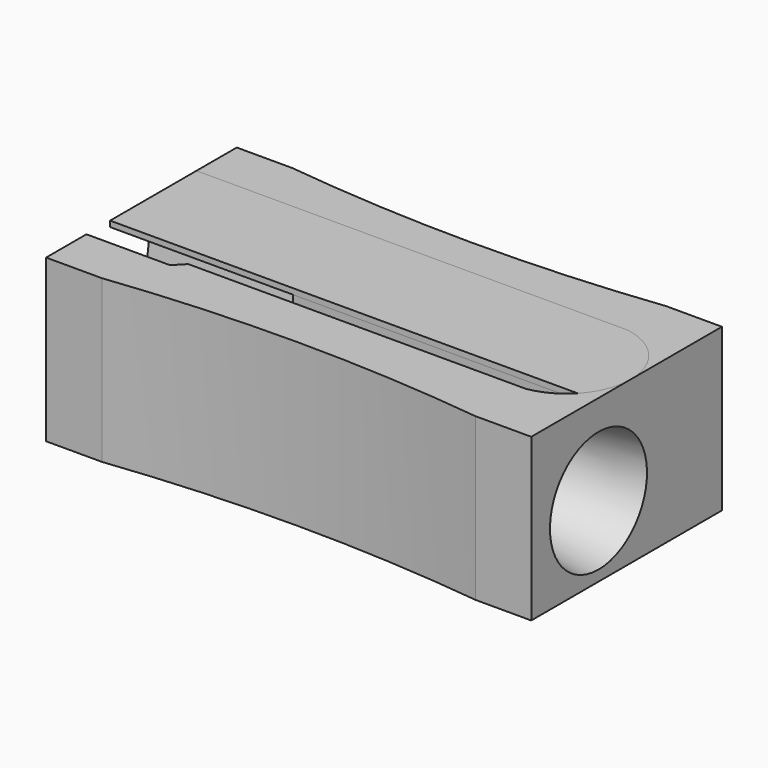
from build123d import *

# Parameters (mm, degrees)
F0_W      = 22.8
F0_H      = 7.6
F1_DEPTH  = 11.2
F7_DEPTH  = 0.9
F9_DEPTH  = 8.6
F10_DEPTH = 7.6
F11_DEPTH = 7.6
F12_DEPTH = 0.27


with BuildPart() as f1:
    # F0 (on Front) → F1 (new body)
    with BuildSketch(Plane.XZ):
        with Locations((11.4, 3.8)):
            Rectangle(F0_W, F0_H)
    extrude(amount=F1_DEPTH)

    # F4 (on offset) → F5 (revolve, cut)
    with BuildSketch(Plane.XZ.offset(7.25)):
        Polygon((8.6, 2.85), (22.8, 0.5), (22.8, 3.35), (8.6, 3.35), align=None)
    revolve(axis=Axis((15.7, -7.25, 3.35), (-1, 0, 0)), mode=Mode.SUBTRACT)

    # F6 (on face) → F7 (cut)
    with BuildSketch(Plane.XY.offset(7.6)):
        with BuildLine():
            Line((21.9739718918, -7.4381930754), (0, -7.4381930754))
            Line((0, -7.4381930754), (0, -8.83))
            Line((0, -8.83), (3.9305342361, -8.83))
            Line((3.9305342361, -8.83), (4.396331734, -8.3473995328))
            Line((4.396331734, -8.3473995328), (20.2752824453, -8.3473995328))
            ThreePointArc((20.2752824453, -8.3473995328), (21.1987672729, -8.0313138122), (21.9739718918, -7.4381930754))
        make_face()
    extrude(amount=-F7_DEPTH, mode=Mode.SUBTRACT)

    # F8 (on face) → F9 (cut)
    with BuildSketch(Plane(origin=(0, 0, 0), x_dir=(0, -1, 0), z_dir=(-1, 0, 0))):
        Polygon((4.9516418949, 7.3297983035), (5.83, 1.1), (8.83, 1.1), (8.83, 6.7), (7.4381930754, 6.7), (7.4381930754, 7.3297983035), align=None)
    extrude(amount=-F9_DEPTH, mode=Mode.SUBTRACT)

    # F6 (on face) → F10 (cut)
    with BuildSketch(Plane.XY.offset(7.6)):
        with BuildLine():
            Line((2.6200045832, -11.2), (20.1820470393, -11.2))
            ThreePointArc((20.1820470393, -11.2), (11.4010258112, -10.6841840003), (2.6200045832, -11.2))
        make_face()
    extrude(amount=-F10_DEPTH, mode=Mode.SUBTRACT)

    # F6 (on face) → F11 (cut)
    with BuildSketch(Plane.XY.offset(7.6)):
        with BuildLine():
            Line((20.1820470393, 0), (2.6200045832, 0))
            ThreePointArc((2.6200045832, 0), (11.4010258112, -0.5158159997), (20.1820470393, 0))
        make_face()
    extrude(amount=-F11_DEPTH, mode=Mode.SUBTRACT)


with BuildPart() as f12:
    # F6 (on face) → F12 (new body)
    with BuildSketch(Plane.XY.offset(7.6)):
        with BuildLine():
            Line((20.2752824453, -2.3688024376), (0, -2.3688024376))
            Line((0, -2.3688024376), (0, -7.4381930754))
            Line((0, -7.4381930754), (21.9739718918, -7.4381930754))
            ThreePointArc((21.9739718918, -7.4381930754), (22.5859364858, -6.4771525411), (22.8, -5.3581009852))
            ThreePointArc((22.8, -5.3581009852), (22.0843677289, -3.4016945513), (20.2752824453, -2.3688024376))
        make_face()
    extrude(amount=-F12_DEPTH)


solid = Compound([f1.part, f12.part])
